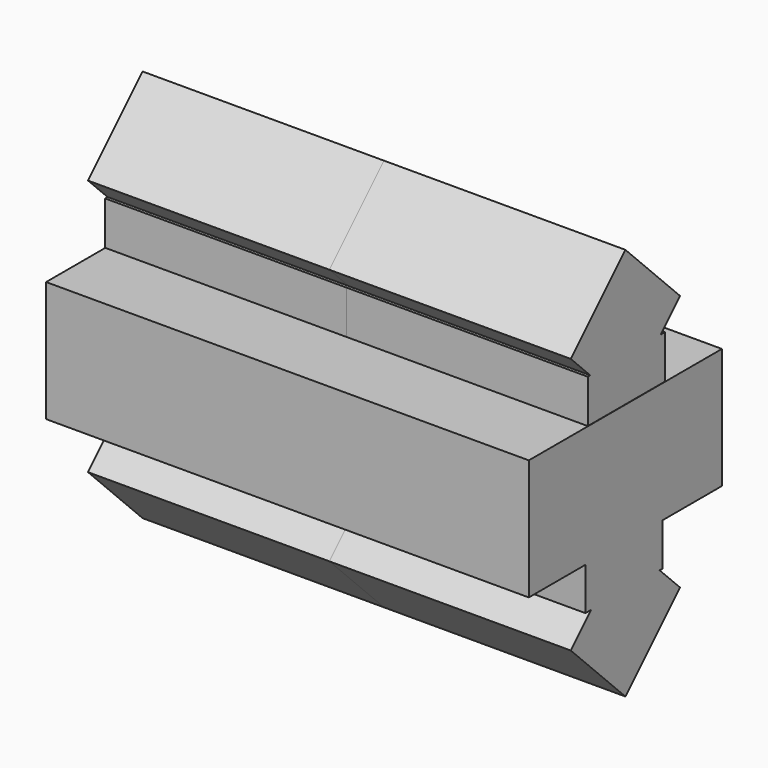
from build123d import *

# Parameters (mm, degrees)
F0_W      = 25.4
F0_H      = 12.7
F3_DEPTH  = 3.175
F3_FACE_W = 25.4
F3_FACE_H = 12.7
F4_DEPTH  = 3.175
F5_W      = 5.08
F5_H      = 2.286
F7_DEPTH  = 12.7
F6_W      = 5.08
F6_H      = 2.286
F8_DEPTH  = 12.7
F9_DEPTH  = 12.7


with BuildPart() as f3:
    # F0 (on Top) → F3 (new body)
    with BuildSketch(Plane.XY):
        Rectangle(F0_W, F0_H)
    extrude(amount=F3_DEPTH)

    # F3_face (on face) → F4 (join)
    with BuildSketch(Plane(origin=(0, 0, 0), x_dir=(1, 0, 0), z_dir=(0, 0, -1))):
        Rectangle(F3_FACE_W, F3_FACE_H)
    extrude(amount=F4_DEPTH)

    # F1 (on Right) + F5 (on Right) → F7 (join)
    with BuildSketch(Plane.YZ):
        Polygon((3.592102, 6.754402), (0, 10.346504), (-3.592102, 6.754402), (0, 3.1623), align=None)
    with BuildSketch(Plane.YZ):
        with Locations((0.06673, 4.330203)):
            Rectangle(F5_W, F5_H)
    extrude(amount=F7_DEPTH)

    # F6 (on Right) + F2 (on Right) → F8 (join)
    with BuildSketch(Plane.YZ):
        with Locations((-0.087894, -4.272406)):
            Rectangle(F6_W, F6_H)
    with BuildSketch(Plane.YZ):
        Polygon((0, -10.345057), (3.592102, -6.752954), (0, -3.160852), (-3.592102, -6.752954), align=None)
    extrude(amount=F8_DEPTH)

    # F7_face (on face) + F8_face (on face) → F9 (join)
    with BuildSketch(Plane(origin=(0, 0.024156, 6.218296), x_dir=(0, 1, 0), z_dir=(-1, 0, 0))):
        Polygon((-0.04906, 3.031093), (-2.497427, 3.031093), (-2.497427, 0.745093), (-2.33506, 0.745093), (-3.616259, -0.536106), (-0.024156, -4.128208), (3.567946, -0.536106), (2.286747, 0.745093), (2.582573, 0.745093), (2.582573, 3.031093), (0.000747, 3.031093), (-0.011456, 3.043296), (-0.036857, 3.043296), align=None)
    with BuildSketch(Plane(origin=(0, -0.031159, -6.212423), x_dir=(0, 1, 0), z_dir=(-1, 0, 0))):
        Polygon((-2.596735, -3.037423), (2.483265, -3.037423), (2.483265, -0.797017), (2.285713, -0.797017), (3.623261, 0.540531), (0.031159, 4.132633), (-3.560944, 0.540531), (-2.223395, -0.797017), (-2.596735, -0.797017), align=None)
    extrude(amount=F9_DEPTH)


solid = f3.part
